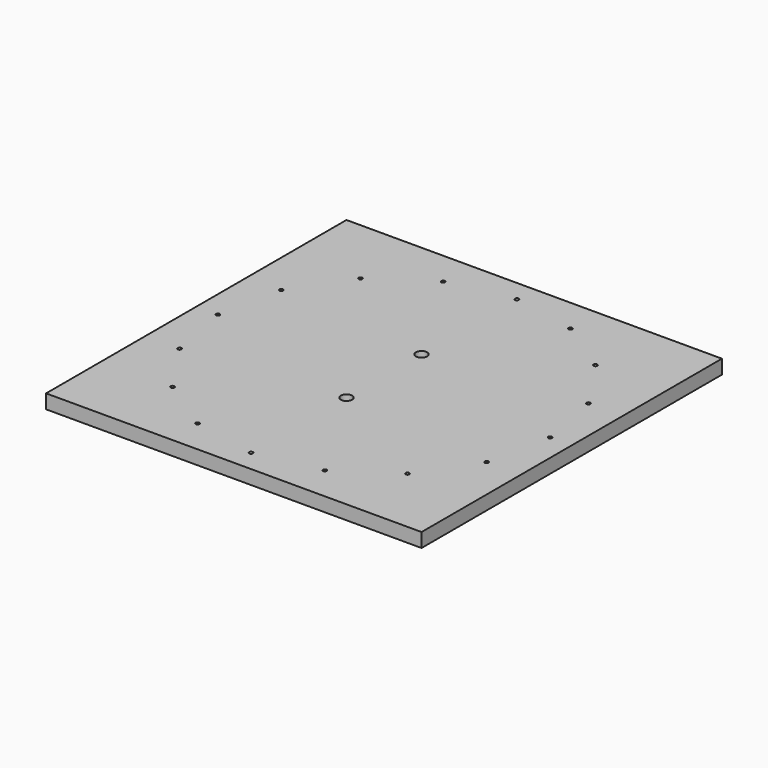
from build123d import *

# Parameters (mm, degrees)
SKETCH_W              = 399.99
SKETCH_H              = 399.99
PAD_DEPTH             = 15
SKETCH001_R           = 6
POCKET_DEPTH          = 1146.741253
SKETCH002_R           = 2
POCKET001_DEPTH       = 1146.741253
POLARPATTERN_COUNT    = 16
POLARPATTERN001_COUNT = 2


with BuildPart() as part:
    # Sketch → Pad (new body)
    with BuildSketch(Plane.XY):
        Rectangle(SKETCH_W, SKETCH_H)
    extrude(amount=PAD_DEPTH)

    # Sketch001 (on Face6 of Pad) → Pocket (cut, through all)
    with BuildSketch(Plane.XY.offset(15)):
        with Locations((0, 50)):
            Circle(SKETCH001_R)
    pocket = extrude(amount=-POCKET_DEPTH, mode=Mode.SUBTRACT)

    # Sketch002 (on Face5 of Pocket) → Pocket001 (cut, through all)
    with BuildSketch(Plane.XY.offset(15)):
        with Locations((0, 177)):
            Circle(SKETCH002_R)
    pocket001 = extrude(amount=-POCKET001_DEPTH, mode=Mode.SUBTRACT)

    # PolarPattern: Pocket001 ×16 about axis
    polarpattern_axis = Axis((0, 0, 15), (0, 0, 1))
    for i in range(1, POLARPATTERN_COUNT):
        add(pocket001.rotate(polarpattern_axis, i * 360 / POLARPATTERN_COUNT), mode=Mode.SUBTRACT)

    # PolarPattern001: Pocket ×2 about axis
    polarpattern001_axis = Axis((0, 0, 15), (0, 0, 1))
    for i in range(1, POLARPATTERN001_COUNT):
        add(pocket.rotate(polarpattern001_axis, i * 360 / POLARPATTERN001_COUNT), mode=Mode.SUBTRACT)


solid = part.part
